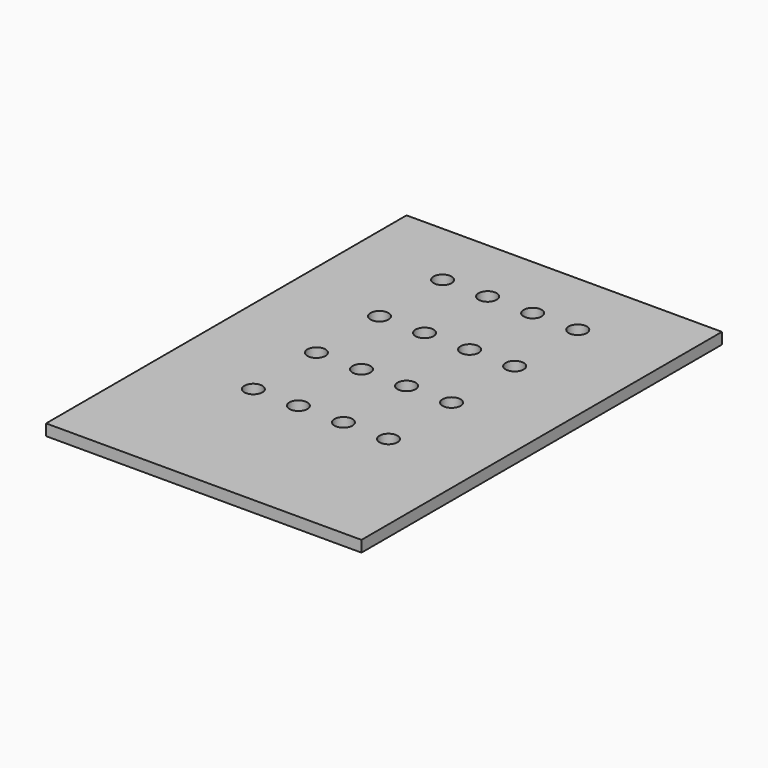
from build123d import *

# Parameters (mm, degrees)
F0_W     = 140
F0_H     = 200
F0_R     = 4
F1_DEPTH = 5


with BuildPart() as f1:
    # F0 (on Top) → F1 (new body)
    with BuildSketch(Plane.XY):
        Rectangle(F0_W, F0_H)
        with Locations((-30, -35)):
            Circle(F0_R, mode=Mode.SUBTRACT)
        with Locations((-10, -35)):
            Circle(F0_R, mode=Mode.SUBTRACT)
        with Locations((10, -35)):
            Circle(F0_R, mode=Mode.SUBTRACT)
        with Locations((30, -35)):
            Circle(F0_R, mode=Mode.SUBTRACT)
        with Locations((-30, 0)):
            Circle(F0_R, mode=Mode.SUBTRACT)
        with Locations((-10, 0)):
            Circle(F0_R, mode=Mode.SUBTRACT)
        with Locations((-30, 35)):
            Circle(F0_R, mode=Mode.SUBTRACT)
        with Locations((-10, 35)):
            Circle(F0_R, mode=Mode.SUBTRACT)
        with Locations((-30, 70)):
            Circle(F0_R, mode=Mode.SUBTRACT)
        with Locations((-10, 70)):
            Circle(F0_R, mode=Mode.SUBTRACT)
        with Locations((10, 0)):
            Circle(F0_R, mode=Mode.SUBTRACT)
        with Locations((30, 0)):
            Circle(F0_R, mode=Mode.SUBTRACT)
        with Locations((10, 35)):
            Circle(F0_R, mode=Mode.SUBTRACT)
        with Locations((30, 35)):
            Circle(F0_R, mode=Mode.SUBTRACT)
        with Locations((10, 70)):
            Circle(F0_R, mode=Mode.SUBTRACT)
        with Locations((30, 70)):
            Circle(F0_R, mode=Mode.SUBTRACT)
    extrude(amount=F1_DEPTH)


solid = f1.part
